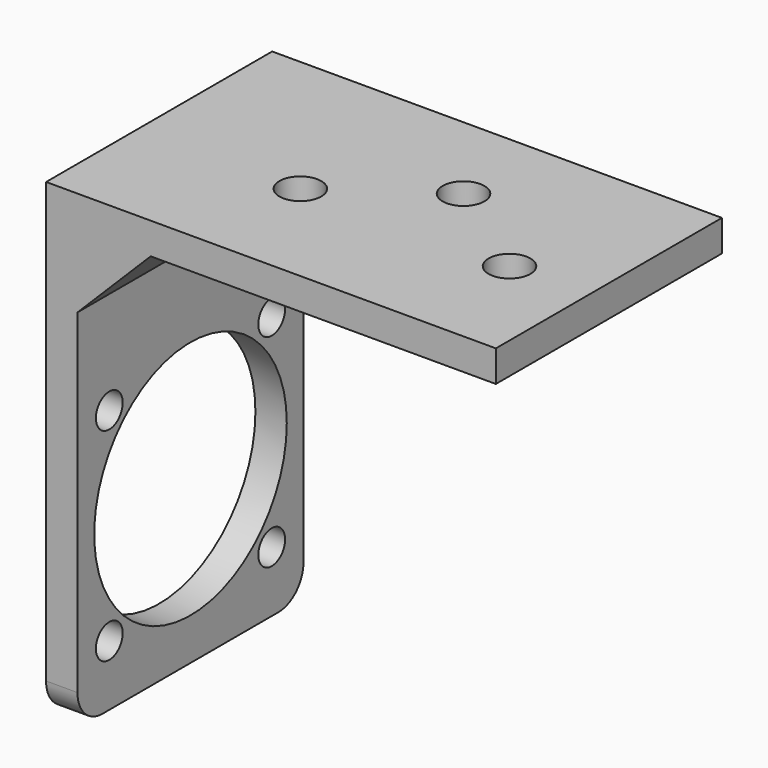
from build123d import *

# Parameters (mm, degrees)
SKETCH005_W             = 27
SKETCH005_H             = 40
SKETCH005_R             = 2
PAD003_DEPTH            = 3
SKETCH004_R             = 11.5
SKETCH004_R_2           = 1.6
PAD004_DEPTH            = 3
PAD024_DEPTH            = 27
BODY002_ROLL_ANGLE      = -89.9826768737
BODY002_PITCH_ANGLE     = -0.0173178896
BODY002_PLACEMENT_ANGLE = 89.9826768737


with BuildPart() as part:
    # Sketch005 → Pad003 (new body)
    with BuildSketch(Plane.XZ):
        with Locations((13.5, -20)):
            Rectangle(SKETCH005_W, SKETCH005_H)
        with Locations((11, -12.5)):
            Circle(SKETCH005_R, mode=Mode.SUBTRACT)
        with Locations((18, -22.5)):
            Circle(SKETCH005_R, mode=Mode.SUBTRACT)
        with Locations((11, -32.5)):
            Circle(SKETCH005_R, mode=Mode.SUBTRACT)
    extrude(amount=-PAD003_DEPTH)

    # Sketch004 → Pad004 (join)
    with BuildSketch(Plane.XY):
        with BuildLine():
            Line((0, 42), (0, 0))
            Line((0, 0), (27, 0))
            Line((27, 0), (27, 42))
            ThreePointArc((27, 42), (26.1213203436, 44.1213203436), (24, 45))
            Line((24, 45), (3, 45))
            ThreePointArc((3, 45), (0.8786796564, 44.1213203436), (0, 42))
        make_face()
        with Locations((13.5, 29.5)):
            Circle(SKETCH004_R, mode=Mode.SUBTRACT)
        with Locations((3.8, 39.2)):
            Circle(SKETCH004_R_2, mode=Mode.SUBTRACT)
        with Locations((23.2, 39.2)):
            Circle(SKETCH004_R_2, mode=Mode.SUBTRACT)
        with Locations((23.2, 19.8)):
            Circle(SKETCH004_R_2, mode=Mode.SUBTRACT)
        with Locations((3.8, 19.8)):
            Circle(SKETCH004_R_2, mode=Mode.SUBTRACT)
    extrude(amount=PAD004_DEPTH)

    # Sketch043 → Pad024 (join)
    with BuildSketch(Plane.YZ):
        Polygon((0, 0), (0, -10), (10, 0), align=None)
    extrude(amount=PAD024_DEPTH)


with BuildPart() as part_1:
    # Body002 roll: moved
    add(part.part.rotate(Axis((0, 0, 0), (1, 0, 0)), BODY002_ROLL_ANGLE))


with BuildPart() as part_2:
    # Body002 pitch: moved
    add(part_1.part.rotate(Axis((0, 0, 0), (0, 1, 0)), BODY002_PITCH_ANGLE))


with BuildPart() as part_3:
    # Body002 placement: moved
    add(part_2.part.moved(Location((-70, 7, 0))).rotate(Axis((-70, 7, 0), (0, 0, 1)), BODY002_PLACEMENT_ANGLE))


solid = part_3.part
